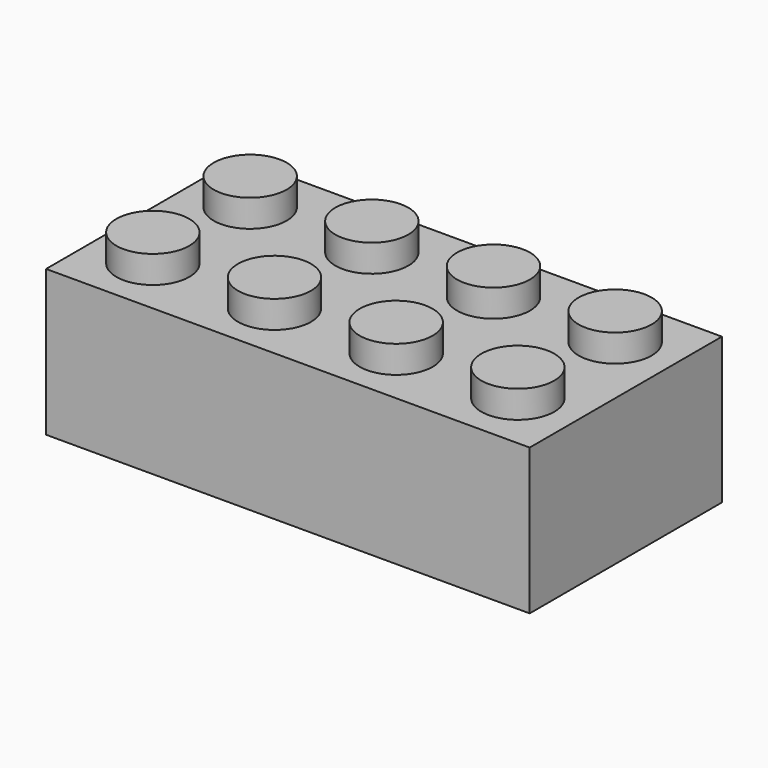
from build123d import *

# Parameters (mm, degrees)
SKETCH004_W   = 31.8
SKETCH004_H   = 15.8
PAD_DEPTH     = 9.6
SKETCH005_R   = 2.4
PAD001_DEPTH  = 1.8
POCKET_DEPTH  = 8.4
SKETCH007_R   = 3.25
SKETCH007_R_2 = 2.4
PAD002_DEPTH  = 8.4


with BuildPart() as part:
    # Sketch004 → Pad (new body)
    with BuildSketch(Plane.XY):
        Rectangle(SKETCH004_W, SKETCH004_H)
    extrude(amount=PAD_DEPTH)

    # Sketch005 (on Face6 of Pad) → Pad001 (join)
    with BuildSketch(Plane.XY.offset(9.6)):
        with Locations((-12, 4)):
            Circle(SKETCH005_R)
        with Locations((-4, 4)):
            Circle(SKETCH005_R)
        with Locations((12, 4)):
            Circle(SKETCH005_R)
        with Locations((4, 4)):
            Circle(SKETCH005_R)
        with Locations((-12, -4)):
            Circle(SKETCH005_R)
        with Locations((-4, -4)):
            Circle(SKETCH005_R)
        with Locations((12, -4)):
            Circle(SKETCH005_R)
        with Locations((4, -4)):
            Circle(SKETCH005_R)
    extrude(amount=PAD001_DEPTH)

    # Sketch006 (on Face4 of Pad001) → Pocket (cut)
    with BuildSketch(Plane(origin=(0, 0, 0), x_dir=(1, 0, 0), z_dir=(0, 0, -1))):
        Polygon((-14.7, 6.7), (-14.7, 4.3), (-14.4, 4.3), (-14.4, 3.7), (-14.7, 3.7), (-14.7, 0), (-14.7, -3.7), (-14.4, -3.7), (-14.4, -4.3), (-14.7, -4.3), (-14.7, -6.7), (-12.3, -6.7), (-12.3, -6.4), (-11.7, -6.4), (-11.7, -6.7), (-4.3, -6.7), (-4.3, -6.4), (-3.7, -6.4), (-3.7, -6.7), (0, -6.7), (3.7, -6.7), (3.7, -6.4), (4.3, -6.4), (4.3, -6.7), (11.7, -6.7), (11.7, -6.4), (12.3, -6.4), (12.3, -6.7), (14.7, -6.7), (14.7, -4.3), (14.4, -4.3), (14.4, -3.7), (14.7, -3.7), (14.7, 0), (14.7, 3.7), (14.4, 3.7), (14.4, 4.3), (14.7, 4.3), (14.7, 6.7), (12.3, 6.7), (12.3, 6.4), (11.7, 6.4), (11.7, 6.7), (4.3, 6.7), (4.3, 6.4), (3.7, 6.4), (3.7, 6.7), (0, 6.7), (-3.7, 6.7), (-3.7, 6.4), (-4.3, 6.4), (-4.3, 6.7), (-11.7, 6.7), (-11.7, 6.4), (-12.3, 6.4), (-12.3, 6.7), align=None)
    extrude(amount=-POCKET_DEPTH, mode=Mode.SUBTRACT)

    # Sketch007 (on Face71 of Pocket) → Pad002 (join)
    with BuildSketch(Plane(origin=(0, 0, 8.4), x_dir=(1, 0, 0), z_dir=(0, 0, -1))):
        Circle(SKETCH007_R)
        Circle(SKETCH007_R_2, mode=Mode.SUBTRACT)
        with Locations((-8, 0)):
            Circle(SKETCH007_R)
        with Locations((-8, 0)):
            Circle(SKETCH007_R_2, mode=Mode.SUBTRACT)
        with Locations((8, 0)):
            Circle(SKETCH007_R)
        with Locations((8, 0)):
            Circle(SKETCH007_R_2, mode=Mode.SUBTRACT)
    extrude(amount=PAD002_DEPTH)


solid = part.part
